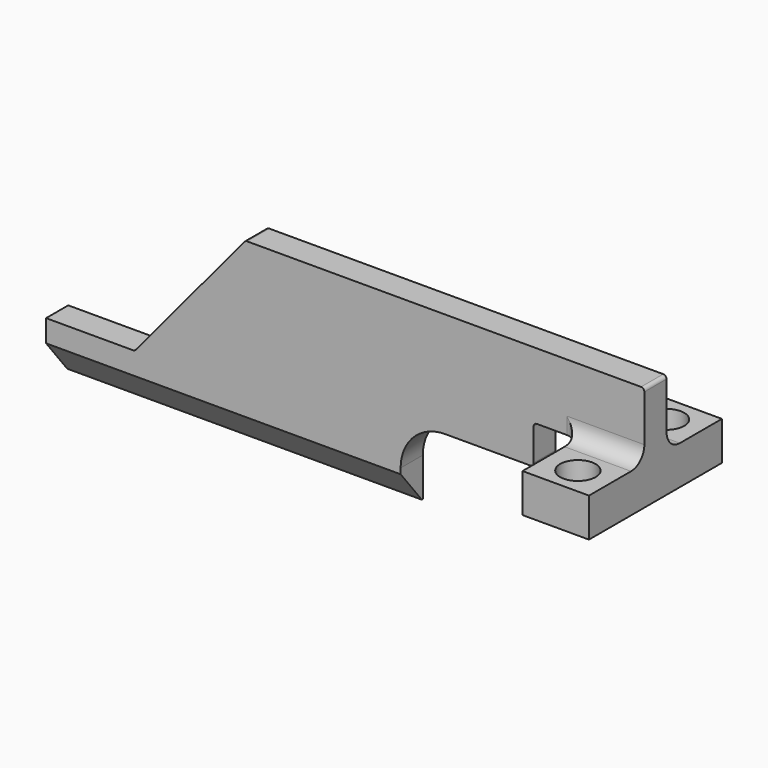
from build123d import *

# Parameters (mm, degrees)
SKETCH_W          = 6
SKETCH_H          = 15
SKETCH_R          = 1.6
PAD_DEPTH         = 3.5
PAD001_DEPTH      = 1.25
PAD001_DEPTH_BACK = 1.25
CHAMFER_SIZE2     = 2.4
CHAMFER_SIZE      = 3
FILLET_R          = 0.3
FILLET001_R       = 1.5
FILLET002_R       = 1
FILLET003_R       = 0.3


with BuildPart() as part:
    # Sketch (on XY_Plane of Origin) → Pad (new body)
    with BuildSketch(Plane.XY):
        with Locations((7, 0)):
            Rectangle(SKETCH_W, SKETCH_H)
        with Locations((7, 5)):
            Circle(SKETCH_R, mode=Mode.SUBTRACT)
        with Locations((7, -5)):
            Circle(SKETCH_R, mode=Mode.SUBTRACT)
    extrude(amount=-PAD_DEPTH)

    # Sketch003 → Pad001 (join, two sides)
    with BuildSketch(Plane.XZ) as pad001_sk:
        with BuildLine():
            Line((10, 0), (0, 0))
            Line((0, 0), (0, -3.5))
            Line((0, -3.5), (-8, -3.5))
            ThreePointArc((-8, -3.5), (-10.828427, -4.671573), (-12, -7.5))
            Line((-12, -7.5), (-12, -11))
            Line((-12, -11), (-44, -11))
            Line((-44, -11), (-44, -6))
            Line((-44, -6), (-36, -6))
            Line((-36, -6), (-26, 6))
            Line((-26, 6), (10, 6))
            Line((10, 6), (10, 0))
        make_face()
    extrude(amount=PAD001_DEPTH)
    extrude(pad001_sk.sketch, amount=-PAD001_DEPTH_BACK)

    # Chamfer
    chamfer_edges = [part.edges().sort_by_distance(p)[0] for p in [
        (-28, -1.25, -11),
    ]]
    chamfer_side = part.faces().sort_by_distance((-17.427573, -1.25, -2.073781))[0]
    chamfer(chamfer_edges, length=CHAMFER_SIZE, length2=CHAMFER_SIZE2, reference=chamfer_side)

    # Fillet
    fillet_edges = [part.edges().sort_by_distance(p)[0] for p in [
        (-36, 0, -6),
        (-26, 0, 6),
        (0, 0, -3.5),
        (10, 0, 6),
        (0, 0, 0),
    ]]
    fillet(fillet_edges, radius=FILLET_R)

    # Fillet001
    fillet001_edges = [part.edges().sort_by_distance(p)[0] for p in [
        (7, 1.25, 0),
        (7, -1.25, 0),
    ]]
    fillet(fillet001_edges, radius=FILLET001_R)

    # Fillet002
    fillet002_edges = [part.edges().sort_by_distance(p)[0] for p in [
        (4, 1.25, 0.75),
        (4, -1.25, 0.75),
    ]]
    fillet(fillet002_edges, radius=FILLET002_R)

    # Fillet003
    fillet003_edges = [part.edges().sort_by_distance(p)[0] for p in [
        (4, 0, 0),
    ]]
    fillet(fillet003_edges, radius=FILLET003_R)


solid = part.part
